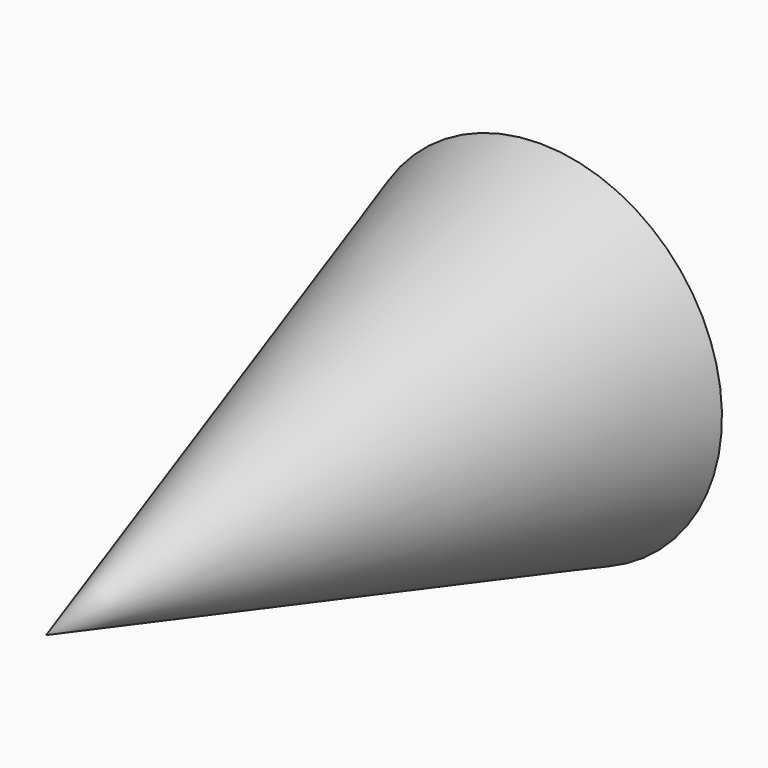
from build123d import *


with BuildPart() as f1:
    # F0 (on Right) → F1 (revolve)
    with BuildSketch(Plane.YZ):
        Polygon((-12.953313, 0), (0, 0), (0, 3.81), align=None)
    revolve(axis=Axis((0, -6.476656, 0), (0, 1, 0)))


solid = f1.part
